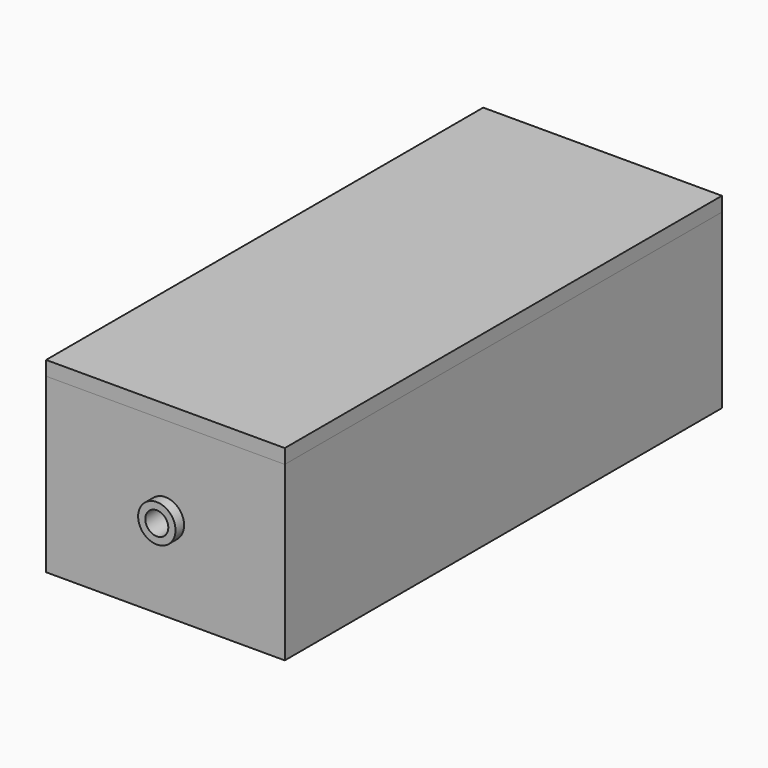
from build123d import *

# Parameters (mm, degrees)
SKETCH_W        = 166
SKETCH_H        = 380
PAD_DEPTH       = 120
SKETCH001_W     = 146
SKETCH001_H     = 360
POCKET_DEPTH    = 105
SKETCH002_R     = 13
PAD001_DEPTH    = 7.5
SKETCH003_R     = 8
POCKET001_DEPTH = 17.5
SKETCH004_W     = 166
SKETCH004_H     = 380
PAD002_DEPTH    = 130
SKETCH005_W     = 166
SKETCH005_H     = 380
POCKET002_DEPTH = 120
SKETCH006_W     = 146
SKETCH006_H     = 360
PAD003_DEPTH    = 7.5


with BuildPart() as controllerbody:
    # Sketch → Pad (new body)
    with BuildSketch(Plane.XY):
        Rectangle(SKETCH_W, SKETCH_H)
    extrude(amount=PAD_DEPTH)

    # Sketch001 (on Face6 of Pad) → Pocket (cut)
    with BuildSketch(Plane.XY.offset(120)):
        Rectangle(SKETCH001_W, SKETCH001_H)
    extrude(amount=-POCKET_DEPTH, mode=Mode.SUBTRACT)

    # Sketch002 (on Face1 of Pocket) → Pad001 (join)
    with BuildSketch(Plane.XZ.offset(190)):
        with Locations((0, 59.996864)):
            Circle(SKETCH002_R)
    extrude(amount=PAD001_DEPTH)

    # Sketch003 (on Face12 of Pad001) → Pocket001 (cut)
    with BuildSketch(Plane.XZ.offset(197.5)):
        with Locations((0, 60.000145)):
            Circle(SKETCH003_R)
    extrude(amount=-POCKET001_DEPTH, mode=Mode.SUBTRACT)


with BuildPart() as controllerlid:
    # Sketch004 → Pad002 (new body)
    with BuildSketch(Plane.XY):
        Rectangle(SKETCH004_W, SKETCH004_H)
    extrude(amount=PAD002_DEPTH)

    # Sketch005 (on Face5 of Pad002) → Pocket002 (cut)
    with BuildSketch(Plane(origin=(0, 0, 0), x_dir=(1, 0, 0), z_dir=(0, 0, -1))):
        Rectangle(SKETCH005_W, SKETCH005_H)
    extrude(amount=-POCKET002_DEPTH, mode=Mode.SUBTRACT)

    # Sketch006 (on Face2 of Pocket002) → Pad003 (join)
    with BuildSketch(Plane(origin=(0, 0, 120), x_dir=(1, 0, 0), z_dir=(0, 0, -1))):
        Rectangle(SKETCH006_W, SKETCH006_H)
    extrude(amount=PAD003_DEPTH)


solid = Compound([controllerbody.part, controllerlid.part])
